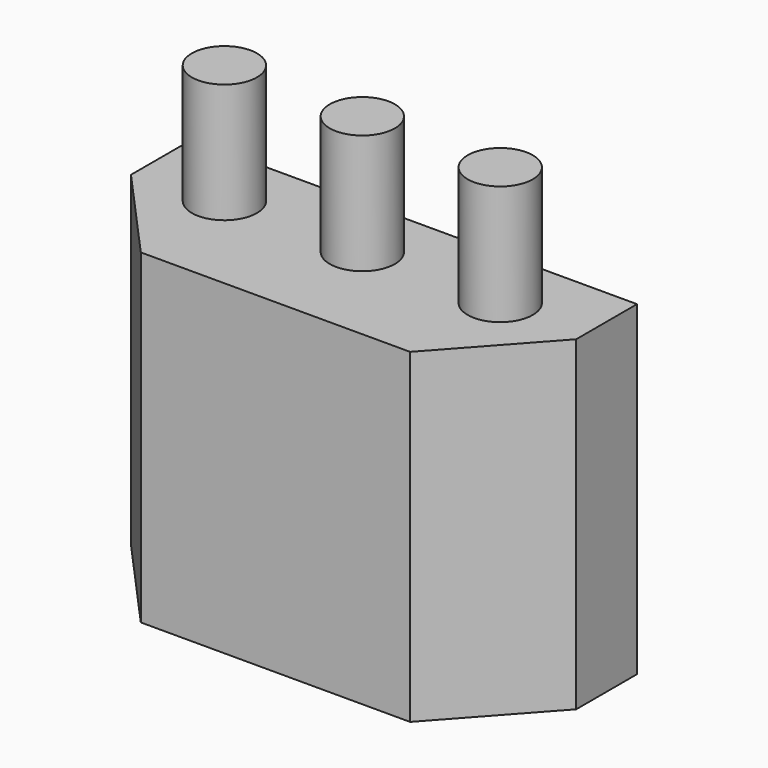
from build123d import *

# Parameters (mm, degrees)
F0_R     = 0.3
F1_DEPTH = 1.1
F3_DEPTH = 3


with BuildPart() as f1:
    # F0 (on Top) → F1 (new body)
    with BuildSketch(Plane.XY):
        Circle(F0_R)
        with Locations((1.27, 0)):
            Circle(F0_R)
        with Locations((-1.27, 0)):
            Circle(F0_R)
    extrude(amount=F1_DEPTH)

    # F2 (on face) → F3 (join)
    with BuildSketch(Plane(origin=(0, 0, 0), x_dir=(1, 0, 0), z_dir=(0, 0, -1))):
        Polygon((1.24, 1), (-1.24, 1), (-2.05, 0.100404), (-2.05, -0.599596), (2.05, -0.599596), (2.05, 0.100404), align=None)
    extrude(amount=F3_DEPTH)


solid = f1.part
